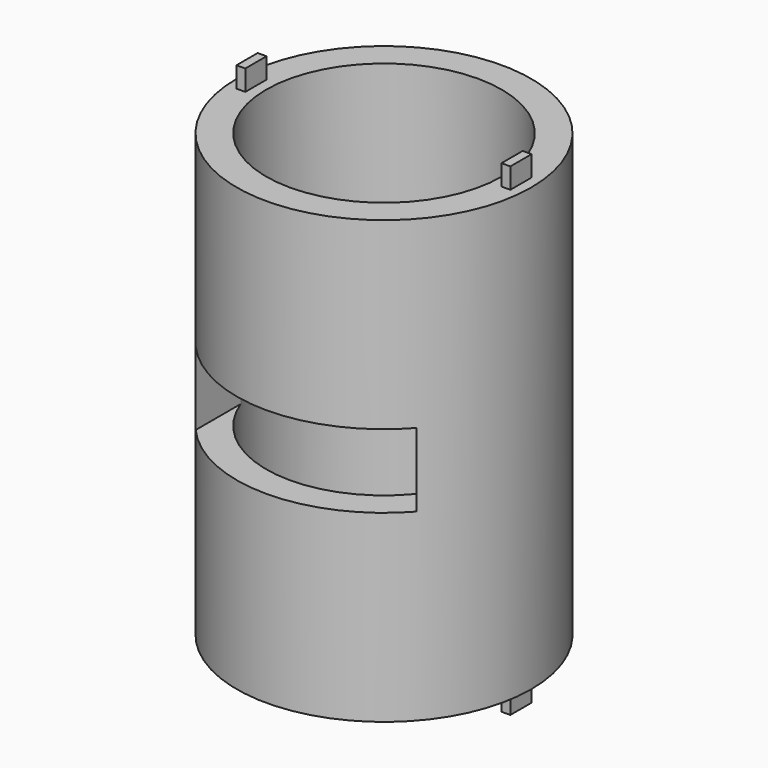
from build123d import *

# Parameters (mm, degrees)
F0_W          = 0.6
F0_H          = 1.8
F1_DEPTH      = 16.4
F1_DEPTH_BACK = 16.4
F0_R          = 10
F0_R_2        = 8
F2_DEPTH      = 15
F2_DEPTH_BACK = 15
F3_W          = 15
F3_H          = 5
F4_DEPTH      = 20
F4_DEPTH_BACK = 20


with BuildPart() as f1:
    # F0 (on Top) → F1 (new body, two sides)
    with BuildSketch(Plane.XY) as f1_sk:
        with Locations((-9, 0)):
            Rectangle(F0_W, F0_H)
    extrude(amount=F1_DEPTH)
    extrude(f1_sk.sketch, amount=-F1_DEPTH_BACK)



with BuildPart() as f1b:
    # F0 (on Top) → F1, piece 2 (new body, two sides)
    with BuildSketch(Plane.XY) as f1_2_sk:
        with Locations((9, 0)):
            Rectangle(F0_W, F0_H)
    extrude(amount=F1_DEPTH)
    extrude(f1_2_sk.sketch, amount=-F1_DEPTH_BACK)


with BuildPart() as f1_1:
    add(f1.part)

    add(f1b.part)  # F2 merges F1b
    # F0 (on Top) → F2 (join, two sides)
    with BuildSketch(Plane.XY) as f2_sk:
        Circle(F0_R)
        with Locations((-9, 0)):
            Rectangle(F0_W, F0_H, mode=Mode.SUBTRACT)
        Circle(F0_R_2, mode=Mode.SUBTRACT)
        with Locations((9, 0)):
            Rectangle(F0_W, F0_H, mode=Mode.SUBTRACT)
    extrude(amount=F2_DEPTH)
    extrude(f2_sk.sketch, amount=-F2_DEPTH_BACK)

    # F3 (on Front) → F4 (cut, two sides)
    with BuildSketch(Plane.XZ) as f4_sk:
        Rectangle(F3_W, F3_H)
    extrude(amount=-F4_DEPTH, mode=Mode.SUBTRACT)
    extrude(f4_sk.sketch, amount=F4_DEPTH_BACK, mode=Mode.SUBTRACT)


solid = f1_1.part
